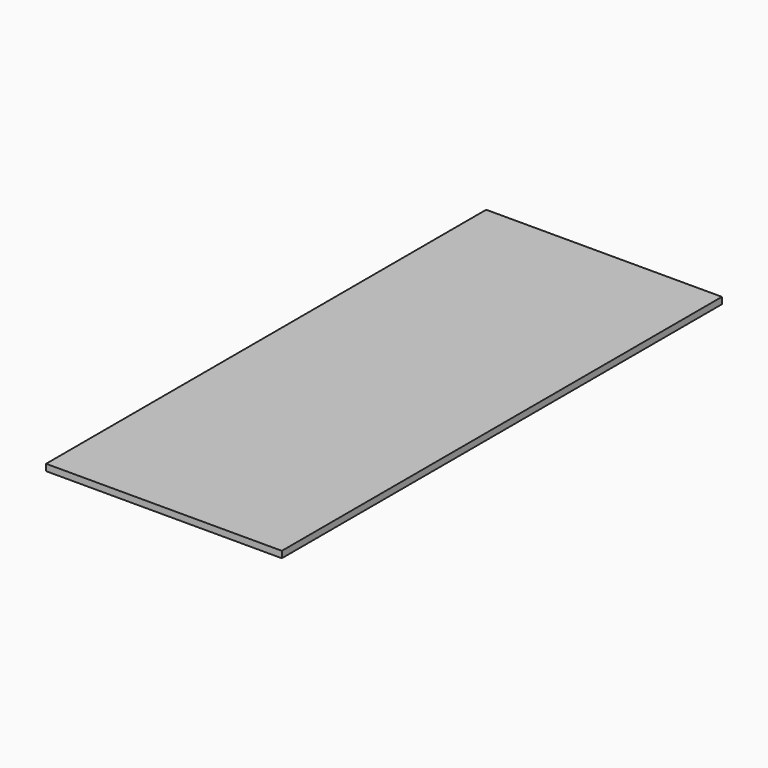
from build123d import *

# Parameters (mm, degrees)
F0_W     = 914.4
F0_H     = 2133.6
F0_W_2   = 609.6
F0_H_2   = 1828.8
F1_DEPTH = 25.4


with BuildPart() as f1:
    # F0 (on Top) → F1 (new body)
    with BuildSketch(Plane.XY):
        Rectangle(F0_W, F0_H)
        Rectangle(F0_W_2, F0_H_2, mode=Mode.SUBTRACT)
        Rectangle(F0_W_2, F0_H_2)
    extrude(amount=F1_DEPTH)


solid = f1.part
